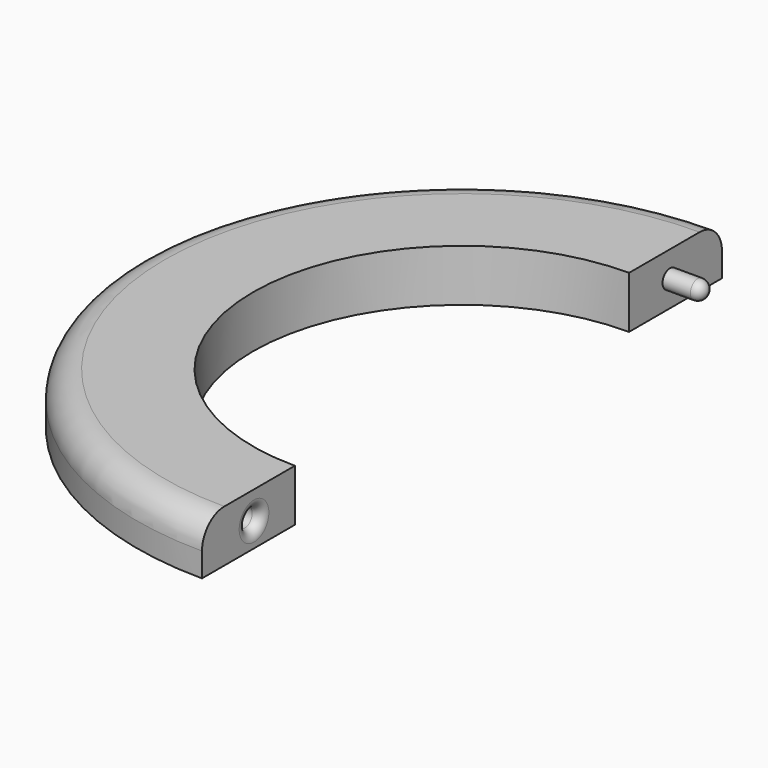
from build123d import *

# Parameters (mm, degrees)
F0_R     = 44.45
F0_R_2   = 28.575
F1_DEPTH = 7.112
F2_R     = 3.81
F3_W     = 80.1546871662
F3_H     = 130.5045634508
F4_DEPTH = 12.7
F6_R     = 1.27
F7_DEPTH = 5.08
F5_R     = 1.27
F8_DEPTH = 6.35
F9_R     = 1.27


with BuildPart() as f1:
    # F0 (on Top) → F1 (new body)
    with BuildSketch(Plane.XY):
        Circle(F0_R)
        Circle(F0_R_2, mode=Mode.SUBTRACT)
    extrude(amount=F1_DEPTH)

    # F2
    f2_edges = [f1.edges().sort_by_distance(p)[0] for p in [
        (-44.45, 0, 7.112),
    ]]
    fillet(f2_edges, radius=F2_R)

    # F3 (on Top) → F4 (cut, symmetric)
    with BuildSketch(Plane.XY):
        with Locations((40.0773435831, -1.4468356967)):
            Rectangle(F3_W, F3_H)
    extrude(amount=F4_DEPTH, both=True, mode=Mode.SUBTRACT)

    # F6 (on face) → F7 (join)
    with BuildSketch(Plane.YZ):
        with Locations((35.56, 3.556)):
            Circle(F6_R)
    extrude(amount=F7_DEPTH)

    # F5 (on face) → F8 (cut)
    with BuildSketch(Plane.YZ):
        with Locations((-35.56, 3.302)):
            Circle(F5_R)
    extrude(amount=-F8_DEPTH, mode=Mode.SUBTRACT)

    # F9
    f9_edges = [f1.edges().sort_by_distance(p)[0] for p in [
        (5.08, 34.29, 3.556),
        (0, -36.83, 3.302),
    ]]
    fillet(f9_edges, radius=F9_R)


solid = f1.part
